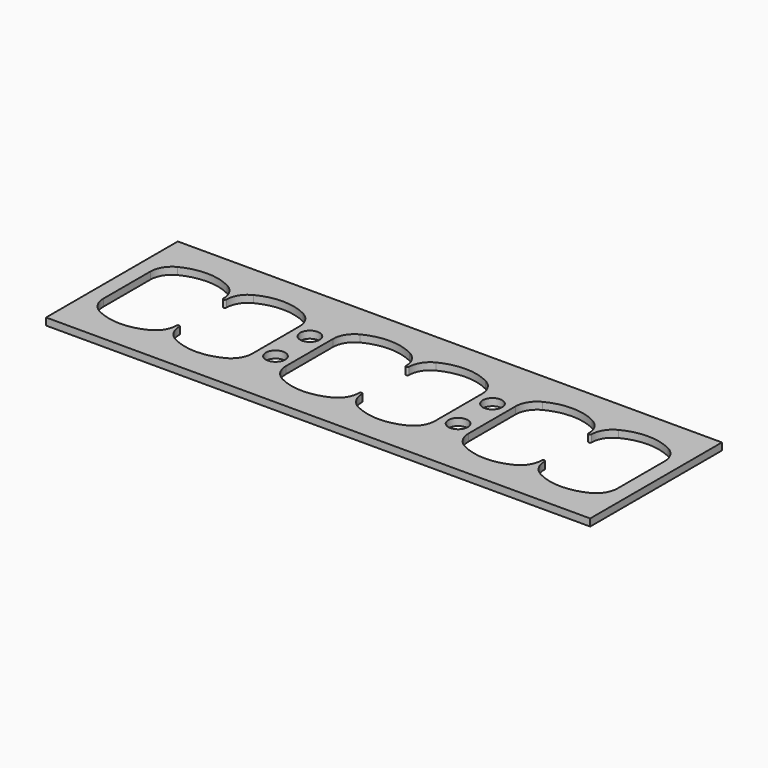
from build123d import *

# Parameters (mm, degrees)
F0_W     = 76
F0_H     = 46
F0_R     = 2.7
F1_DEPTH = 2
F2_R     = 6
F5_DEPTH = 25


with BuildPart() as f1:
    # F0 (on Top) → F1 (new body)
    with BuildSketch(Plane.XY):
        with Locations((-38, 0)):
            Rectangle(F0_W, F0_H)
        Polygon((-71.8, 11.2694276696), (-71.8, 15.2), (-61.6, 15.2), (-51.4, 15.2), (-51.4, 11.2694276696), (-51.4, -11.2694276696), (-51.4, -15.2), (-61.6, -15.2), (-71.8, -15.2), (-71.8, -11.2694276696), align=None, mode=Mode.SUBTRACT)
        Polygon((-50.6, 11.2694276696), (-50.6, 15.2), (-40.4, 15.2), (-30.2, 15.2), (-30.2, 11.2694276696), (-30.2, -11.2694276696), (-30.2, -15.2), (-40.4, -15.2), (-50.6, -15.2), (-50.6, -11.2694276696), align=None, mode=Mode.SUBTRACT)
        with Locations((-25.5, -6)):
            Circle(F0_R, mode=Mode.SUBTRACT)
        Polygon((-10.6, 15.2), (-0.4, 15.2), (-0.4, 11.2694276696), (-0.4, -11.2694276696), (-0.4, -15.2), (-10.6, -15.2), (-20.8, -15.2), (-20.8, -11.2694276696), (-20.8, 11.2694276696), (-20.8, 15.2), align=None, mode=Mode.SUBTRACT)
        with Locations((-25.5, 6)):
            Circle(F0_R, mode=Mode.SUBTRACT)
        with BuildLine():
            Line((-61.6, 15.2), (-71.8, 15.2))
            Line((-71.8, 15.2), (-71.8, 11.2694276696))
            ThreePointArc((-71.8, 11.2694276696), (-67.0655603291, 14.1833582162), (-61.6, 15.2))
        make_face()
        with BuildLine():
            Line((-51.4, 15.2), (-61.6, 15.2))
            ThreePointArc((-61.6, 15.2), (-56.1344396709, 14.1833582162), (-51.4, 11.2694276696))
            Line((-51.4, 11.2694276696), (-51.4, 15.2))
        make_face()
        with BuildLine():
            Line((-51.4, -15.2), (-51.4, -11.2694276696))
            ThreePointArc((-51.4, -11.2694276696), (-56.1344396709, -14.1833582162), (-61.6, -15.2))
            Line((-61.6, -15.2), (-51.4, -15.2))
        make_face()
        with BuildLine():
            ThreePointArc((-61.6, -15.2), (-67.0655603291, -14.1833582162), (-71.8, -11.2694276696))
            Line((-71.8, -11.2694276696), (-71.8, -15.2))
            Line((-71.8, -15.2), (-61.6, -15.2))
        make_face()
        with BuildLine():
            Line((-40.4, 15.2), (-50.6, 15.2))
            Line((-50.6, 15.2), (-50.6, 11.2694276696))
            ThreePointArc((-50.6, 11.2694276696), (-45.8655603291, 14.1833582162), (-40.4, 15.2))
        make_face()
        with BuildLine():
            Line((-30.2, 15.2), (-40.4, 15.2))
            ThreePointArc((-40.4, 15.2), (-34.9344396709, 14.1833582162), (-30.2, 11.2694276696))
            Line((-30.2, 11.2694276696), (-30.2, 15.2))
        make_face()
        with BuildLine():
            ThreePointArc((-20.8, 11.2694276696), (-16.0655603291, 14.1833582162), (-10.6, 15.2))
            Line((-10.6, 15.2), (-20.8, 15.2))
            Line((-20.8, 15.2), (-20.8, 11.2694276696))
        make_face()
        with BuildLine():
            Line((-0.4, 11.2694276696), (-0.4, 15.2))
            Line((-0.4, 15.2), (-10.6, 15.2))
            ThreePointArc((-10.6, 15.2), (-5.1344396709, 14.1833582162), (-0.4, 11.2694276696))
        make_face()
        with BuildLine():
            Line((-0.4, -15.2), (-0.4, -11.2694276696))
            ThreePointArc((-0.4, -11.2694276696), (-5.1344396709, -14.1833582162), (-10.6, -15.2))
            Line((-10.6, -15.2), (-0.4, -15.2))
        make_face()
        with BuildLine():
            ThreePointArc((-10.6, -15.2), (-16.0655603291, -14.1833582162), (-20.8, -11.2694276696))
            Line((-20.8, -11.2694276696), (-20.8, -15.2))
            Line((-20.8, -15.2), (-10.6, -15.2))
        make_face()
        with BuildLine():
            Line((-30.2, -15.2), (-30.2, -11.2694276696))
            ThreePointArc((-30.2, -11.2694276696), (-34.9344396709, -14.1833582162), (-40.4, -15.2))
            Line((-40.4, -15.2), (-30.2, -15.2))
        make_face()
        with BuildLine():
            ThreePointArc((-40.4, -15.2), (-45.8655603291, -14.1833582162), (-50.6, -11.2694276696))
            Line((-50.6, -11.2694276696), (-50.6, -15.2))
            Line((-50.6, -15.2), (-40.4, -15.2))
        make_face()
    extrude(amount=F1_DEPTH)

    # F2
    f2_edges = [f1.edges().sort_by_distance(p)[0] for p in [
        (-71.8, 11.269428, 1),
        (-71.8, -11.269428, 1),
        (-51.4, -11.269428, 1),
        (-51.4, 11.269428, 1),
        (-50.6, 11.269428, 1),
        (-50.6, -11.269428, 1),
        (-20.8, 11.269428, 1),
        (-20.8, -11.269428, 1),
        (-0.4, 11.269428, 1),
        (-0.4, -11.269428, 1),
        (-30.2, -11.269428, 1),
        (-30.2, 11.269428, 1),
    ]]
    fillet(f2_edges, radius=F2_R)

    # F3: F1 across face


with BuildPart() as f1_1:
    add(f1.part)
    add(f1.part.mirror(Plane(origin=(0, 0, 1), x_dir=(0, 1, 0), z_dir=(1, 0, 0))))

    # F4 (on face) → F5 (cut)
    with BuildSketch(Plane.XY.offset(2)):
        with BuildLine():
            ThreePointArc((0.4, 8.1853527719), (0, 7.7853527719), (-0.4, 8.1853527719))
            Line((-0.4, 8.1853527719), (-0.4, -8.1853527719))
            ThreePointArc((-0.4, -8.1853527719), (0, -7.7853527719), (0.4, -8.1853527719))
            Line((0.4, -8.1853527719), (0.4, 8.1853527719))
        make_face()
        with BuildLine():
            ThreePointArc((51.4, 8.1853527719), (51, 7.7853527719), (50.6, 8.1853527719))
            Line((50.6, 8.1853527719), (50.6, -8.1853527719))
            ThreePointArc((50.6, -8.1853527719), (51, -7.7853527719), (51.4, -8.1853527719))
            Line((51.4, -8.1853527719), (51.4, 8.1853527719))
        make_face()
        with BuildLine():
            ThreePointArc((-50.6, 8.1853527719), (-51, 7.7853527719), (-51.4, 8.1853527719))
            Line((-51.4, 8.1853527719), (-51.4, -8.1853527719))
            ThreePointArc((-51.4, -8.1853527719), (-51, -7.7853527719), (-50.6, -8.1853527719))
            Line((-50.6, -8.1853527719), (-50.6, 8.1853527719))
        make_face()
    extrude(amount=-F5_DEPTH, mode=Mode.SUBTRACT)


solid = f1_1.part
